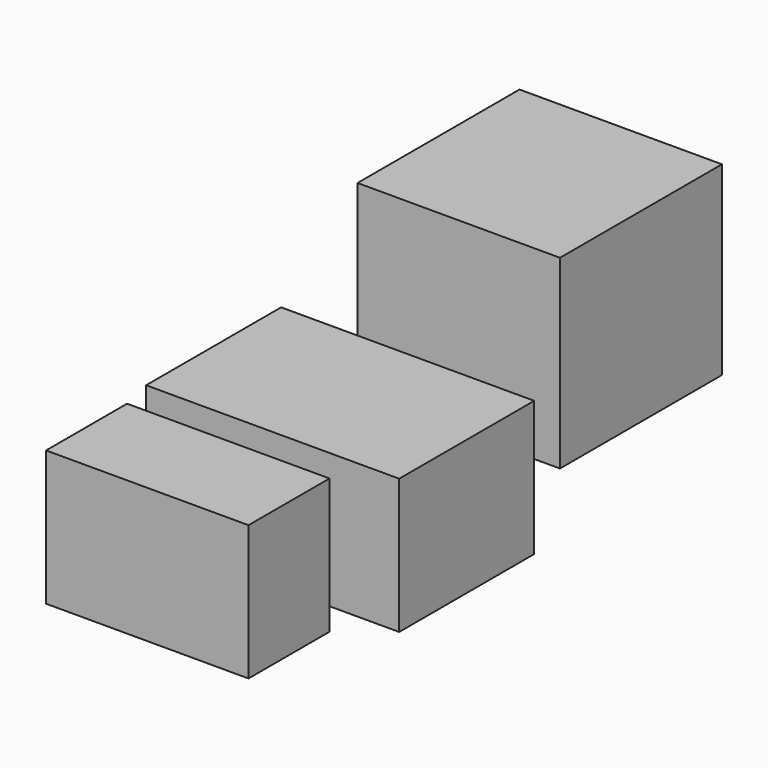
from build123d import *

# Parameters (mm, degrees)
F0_W     = 2286
F0_H     = 1524
F1_DEPTH = 1219.2
F2_W     = 1828.8
F2_H     = 914.4
F3_DEPTH = 1219.2
F4_W     = 1828.8
F4_H     = 1828.8
F5_DEPTH = 1676.4


with BuildPart() as f1:
    # F0 (on Top) → F1 (new body)
    with BuildSketch(Plane.XY):
        with Locations((-329.392735, 203.098659)):
            Rectangle(F0_W, F0_H)
    extrude(amount=F1_DEPTH)


with BuildPart() as f3:
    # F2 (on face) → F3 (new body)
    with BuildSketch(Plane.XY.offset(1219.2)):
        with Locations((-487.131689, -1320.508897)):
            Rectangle(F2_W, F2_H)
    extrude(amount=-F3_DEPTH)


with BuildPart() as f5:
    # F4 (on face) → F5 (new body)
    with BuildSketch(Plane(origin=(0, 0, 0), x_dir=(1, 0, 0), z_dir=(0, 0, -1))):
        with Locations((-775.151894, -3013.914704)):
            Rectangle(F4_W, F4_H)
    extrude(amount=-F5_DEPTH)


solid = Compound([f1.part, f3.part, f5.part])
